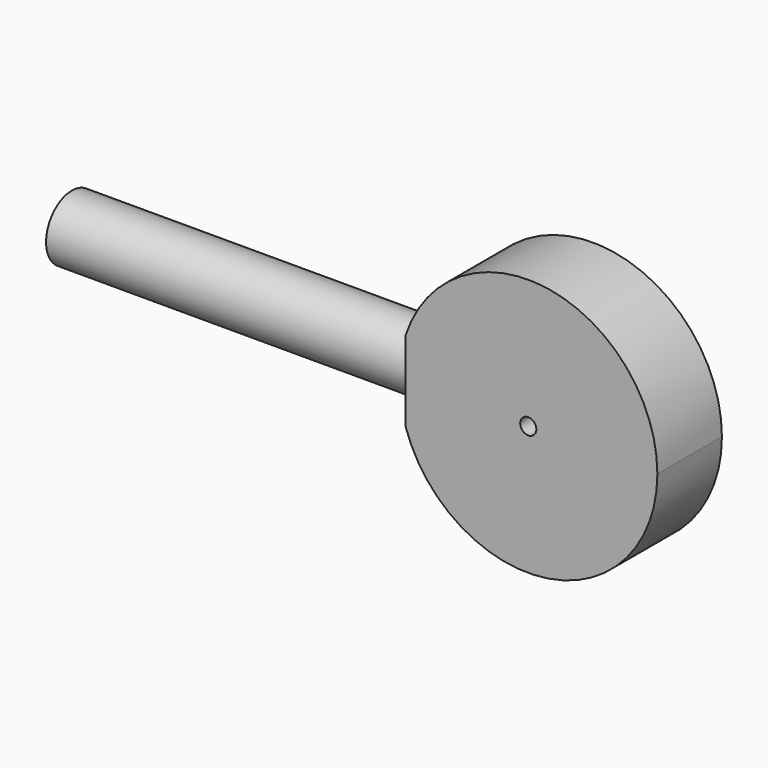
from build123d import *

# Parameters (mm, degrees)
F0_R     = 3.175
F1_DEPTH = 31.75
F2_R     = 12.7
F3_DEPTH = 144.018


with BuildPart() as f1:
    # F0 (on Front) → F1 (new body)
    with BuildSketch(Plane.XZ):
        with BuildLine():
            ThreePointArc((-48.26, -15.862295), (8.032185, -50.160981), (50.8, 0))
            ThreePointArc((50.8, 0), (8.032185, 50.160981), (-48.26, 15.862295))
            Line((-48.26, 15.862295), (-48.26, -15.862295))
        make_face()
        Circle(F0_R, mode=Mode.SUBTRACT)
    extrude(amount=F1_DEPTH)

    # F2 (on face) → F3 (join)
    with BuildSketch(Plane(origin=(-48.26, 0, 0), x_dir=(0, -1, 0), z_dir=(-1, 0, 0))):
        with Locations((15.875, 0)):
            Circle(F2_R)
    extrude(amount=F3_DEPTH)


solid = f1.part
